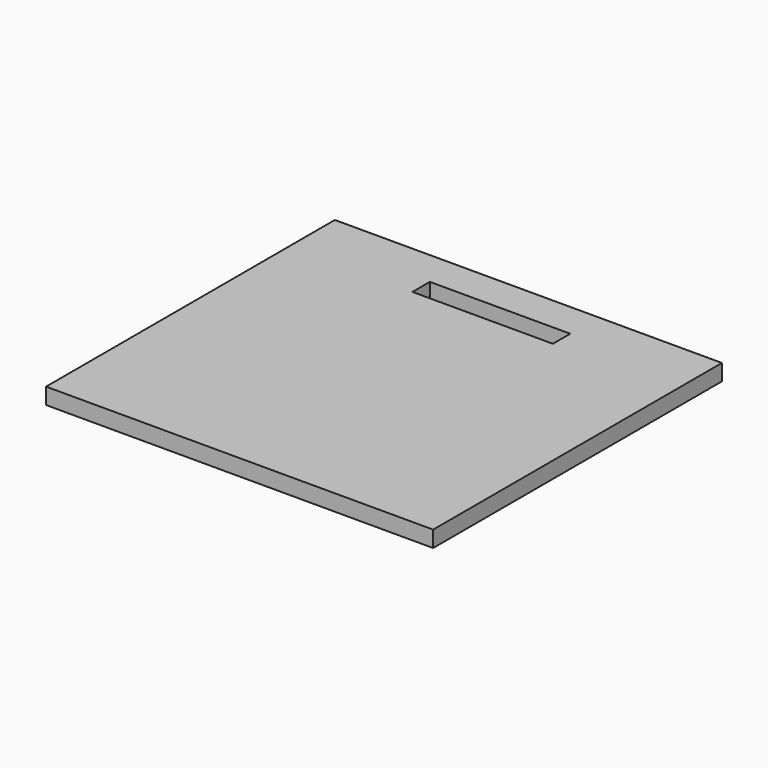
from build123d import *

# Parameters (mm, degrees)
F1_W     = 57.62729
F1_H     = 2.417922
F2_DEPTH = 53.739645
F3_W     = 20.9051
F3_H     = 3.238531
F4_DEPTH = 25
F5_W     = 39.400994
F5_H     = 8.231058
F6_DEPTH = 25


with BuildPart() as f2:
    # F1 (on face) → F2 (new body)
    with BuildSketch(Plane.XZ):
        with Locations((0, 114.370458)):
            Rectangle(F1_W, F1_H)
    extrude(amount=F2_DEPTH)

    # F3 (on face) → F4 (cut)
    with BuildSketch(Plane.XY.offset(115.579419)):
        with Locations((0, -6.892247)):
            Rectangle(F3_W, F3_H)
    extrude(amount=-F4_DEPTH, mode=Mode.SUBTRACT)

    # F5 (on face) → F6 (cut)
    with BuildSketch(Plane.XZ):
        with Locations((0, -5.288288)):
            Rectangle(F5_W, F5_H)
    extrude(amount=F6_DEPTH, mode=Mode.SUBTRACT)


solid = f2.part
